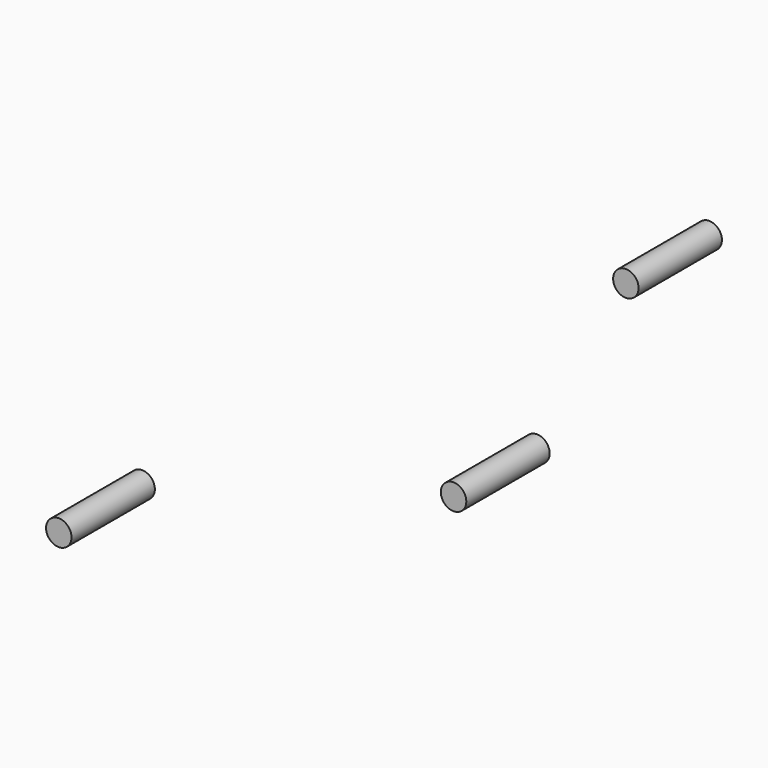
from build123d import *

# Parameters (mm, degrees)
F0_R     = 0.915
F1_DEPTH = 7.49
F2_R     = 0.915
F3_DEPTH = 7.49
F4_DEPTH = 7.49


with BuildPart() as f1:
    # F0 (on Front) → F1 (new body)
    with BuildSketch(Plane.XZ):
        with Locations((-16.368549, 9.46405)):
            Circle(F0_R)
    extrude(amount=F1_DEPTH)


with BuildPart() as f3:
    # F2 (on Front) → F3 (new body)
    with BuildSketch(Plane.XZ):
        with Locations((-28.754417, -8.069788)):
            Circle(F2_R)
    extrude(amount=F3_DEPTH)


with BuildPart() as f4:
    # F0 (on Front) → F4 (new body)
    with BuildSketch(Plane.XZ):
        with Locations((-57.13781, -19.571556)):
            Circle(F0_R)
    extrude(amount=F4_DEPTH)


solid = Compound([f1.part, f3.part, f4.part])
